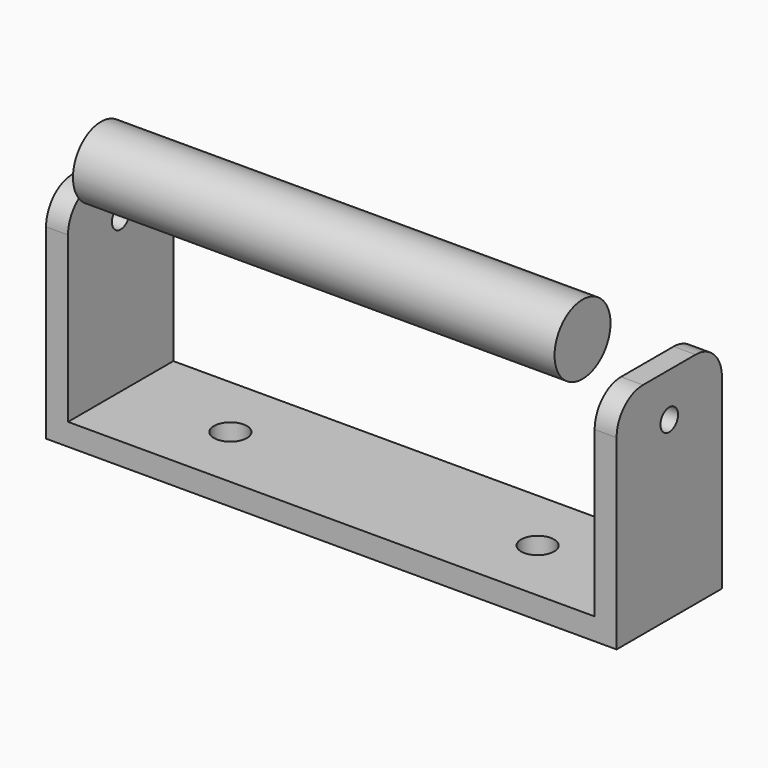
from build123d import *

# Parameters (mm, degrees)
F1_DEPTH      = 76.2
F3_D          = 12.7
F4_R          = 19.05
F6_D          = 19.05
F7_R          = 20.238474
F8_DEPTH      = 182.8178
F8_DEPTH_BACK = 95.9143


with BuildPart() as f1:
    # F0 (on Front) → F1 (new body)
    with BuildSketch(Plane.XZ):
        Polygon((-103.028067, 44.460986), (-115.728067, 44.460986), (-115.728067, -82.539014), (214.471933, -82.539014), (214.471933, 44.460986), (201.771933, 44.460986), (201.771933, -69.839014), (-103.028067, -69.839014), align=None)
    extrude(amount=F1_DEPTH)

    # F3 (through all)
    with Locations(Plane.YZ.offset(214.471933)):
        with Locations((-38.1, 19.060986)):
            Hole(F3_D / 2)

    # F4
    f4_edges = [f1.edges().sort_by_distance(p)[0] for p in [
        (208.121933, -76.2, 44.460986),
        (208.121933, 0, 44.460986),
        (-109.378067, -76.2, 44.460986),
        (-109.378067, 0, 44.460986),
    ]]
    fillet(f4_edges, radius=F4_R)

    # F6 (through all)
    with Locations(Plane(origin=(0, 0, -82.539014), x_dir=(1, 0, 0), z_dir=(0, 0, -1))):
        with Locations((-39.528067, 38.1), (138.271933, 38.1)):
            Hole(F6_D / 2)


with BuildPart() as f8:
    # F7 (on Right) → F8 (new body, two sides)
    with BuildSketch(Plane.YZ) as f8_sk:
        with Locations((-61.290886, 59.135672)):
            Circle(F7_R)
    extrude(amount=F8_DEPTH)
    extrude(f8_sk.sketch, amount=-F8_DEPTH_BACK)


solid = Compound([f1.part, f8.part])
